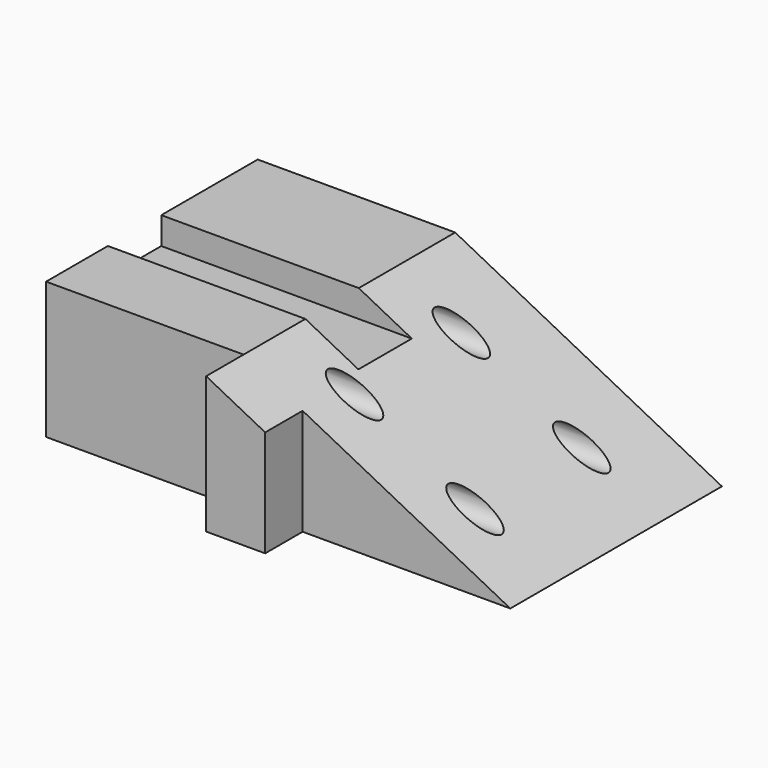
from build123d import *

# Parameters (mm, degrees)
F1_DEPTH      = 50.8
F3_DEPTH      = 49.1127015481
F3_DEPTH_BACK = 66.494050136
F4_R          = 5.0698297576
F4_W          = 24.7860401869
F4_H          = 10.0980177522
F5_DEPTH      = 86.2099544535
F5_DEPTH_BACK = 86.2099544535


with BuildPart() as f1:
    # F0 (on Top) → F1 (new body)
    with BuildSketch(Plane.XY):
        Polygon((-86.2089544535, 49.1117015481), (-86.2089544535, -49.1117015481), (-12.8575693816, -49.1117015481), (-12.8575693816, -66.493050136), (9.0635353699, -66.493050136), (9.0635353699, -49.1117015481), (86.2089544535, -49.1117015481), (86.2089544535, 49.1117015481), align=None)
    extrude(amount=F1_DEPTH)

    # F2 (on Front) → F3 (cut, two sides)
    with BuildSketch(Plane.XZ) as f3_sk:
        Polygon((9.0635353699, 50.8), (-12.8575693816, 50.8), (86.2089544535, 0), (86.2089544535, 50.8), align=None)
    extrude(amount=-F3_DEPTH, mode=Mode.SUBTRACT)
    extrude(f3_sk.sketch, amount=F3_DEPTH_BACK, mode=Mode.SUBTRACT)

    # F4 (on Right) → F5 (cut, two sides)
    with BuildSketch(Plane.YZ) as f5_sk:
        with Locations((-29.1465427727, 37.8675609827)):
            Circle(F4_R)
        with Locations((-29.1465427727, 14.9175236002)):
            Circle(F4_R)
        with Locations((20.425543189, 14.9175236002)):
            Circle(F4_R)
        with Locations((20.425543189, 37.8675609827)):
            Circle(F4_R)
        with Locations((-8.0325044692, 45.7509911239)):
            Rectangle(F4_W, F4_H)
    extrude(amount=-F5_DEPTH, mode=Mode.SUBTRACT)
    extrude(f5_sk.sketch, amount=F5_DEPTH_BACK, mode=Mode.SUBTRACT)


solid = f1.part
